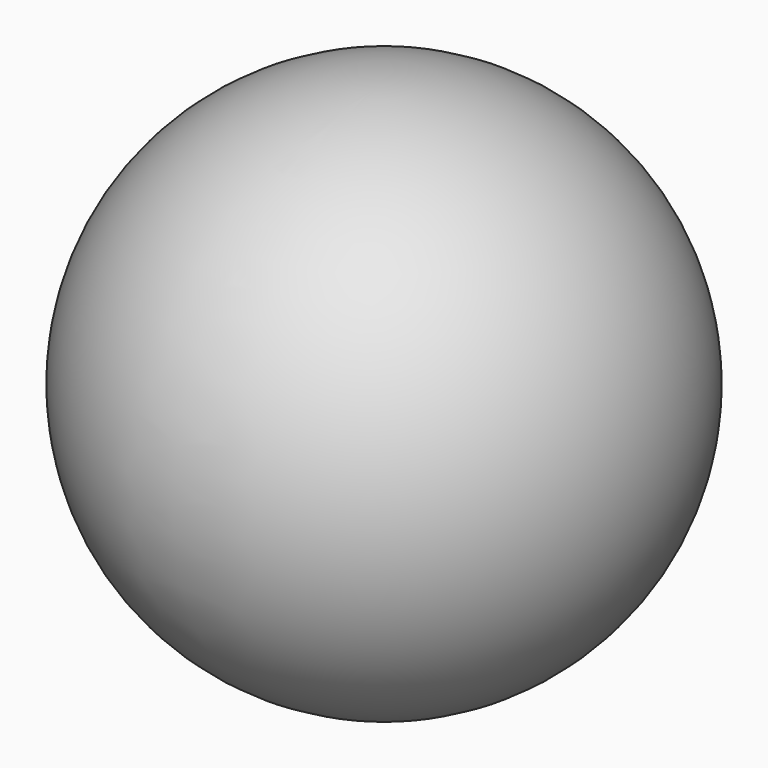
from build123d import *


with BuildPart() as f1:
    # F0 (on Right) → F1 (revolve)
    with BuildSketch(Plane.YZ):
        with BuildLine():
            Line((0, 0), (0, 15.08))
            ThreePointArc((0, 15.08), (-7.54, 7.54), (0, 0))
        make_face()
    revolve(axis=Axis((0, 0, 7.54), (0, 0, -1)))


solid = f1.part
